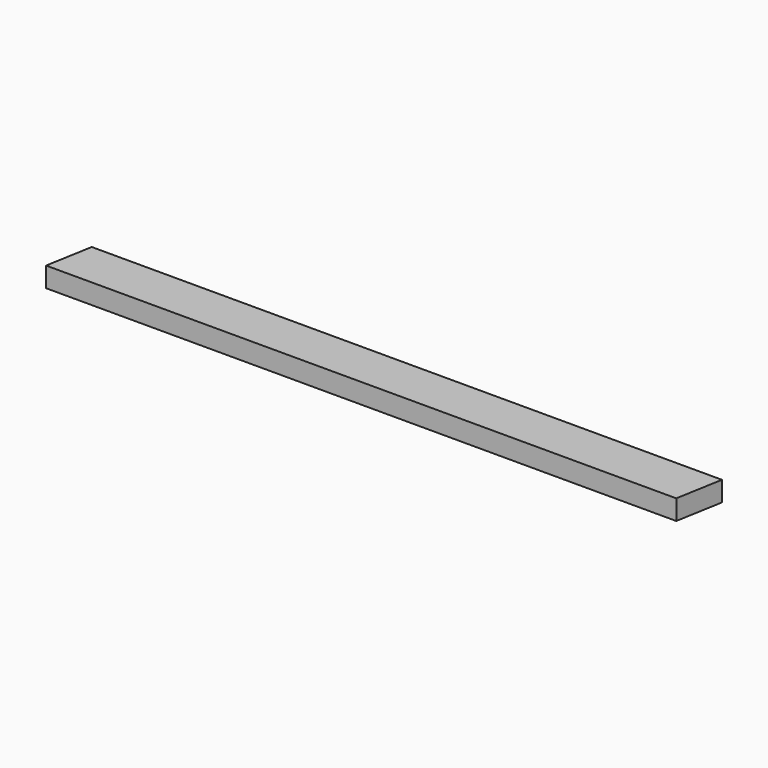
from build123d import *

# Parameters (mm, degrees)
F1_DEPTH = 19


with BuildPart() as f1:
    # F0 (on Top) → F1 (new body, symmetric)
    with BuildSketch(Plane.XY):
        Polygon((449.073391663, -44.5), (464.7664929461, 44.5), (-734.3068987169, 44.5), (-750, -44.5), align=None)
    extrude(amount=F1_DEPTH, both=True)


solid = f1.part
